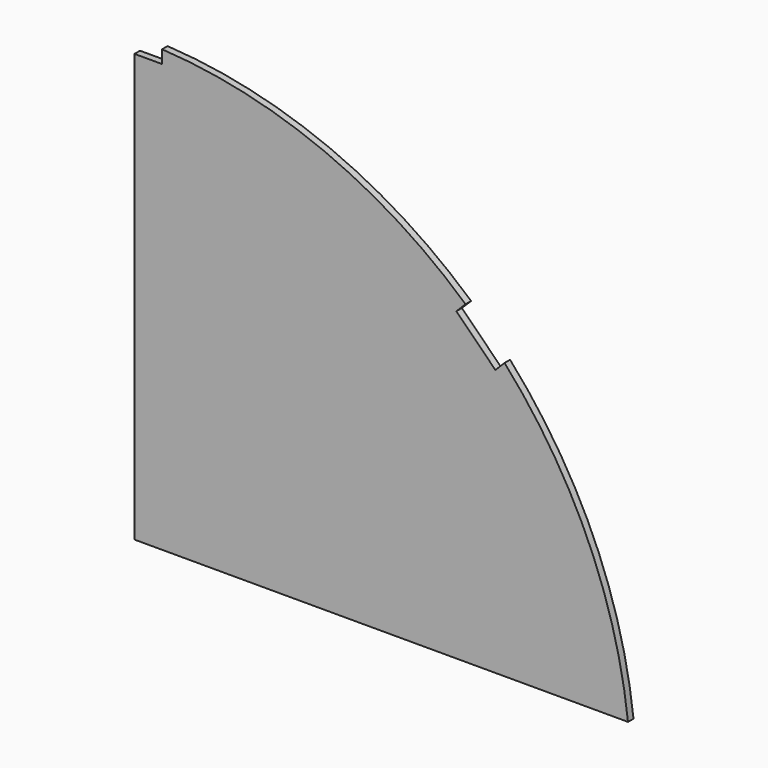
from build123d import *

# Parameters (mm, degrees)
F1_DEPTH = 1.5875


with BuildPart() as f1:
    # F0 (on Front) → F1 (new body)
    with BuildSketch(Plane.XZ):
        with BuildLine():
            Line((0, 12.7), (113.592253, 12.7))
            ThreePointArc((113.592253, 12.7), (104.339133, 46.667284), (85.187611, 76.207355))
            Line((85.187611, 76.207355), (83.067369, 74.087113))
            Line((83.067369, 74.087113), (78.577241, 78.577241))
            Line((78.577241, 78.577241), (74.087113, 83.067369))
            Line((74.087113, 83.067369), (76.207355, 85.187611))
            ThreePointArc((76.207355, 85.187611), (43.740716, 105.599431), (6.35, 114.123475))
            Line((6.35, 114.123475), (6.35, 111.125))
            Line((6.35, 111.125), (0, 111.125))
            Line((0, 111.125), (0, 12.7))
        make_face()
    extrude(amount=F1_DEPTH)


solid = f1.part
